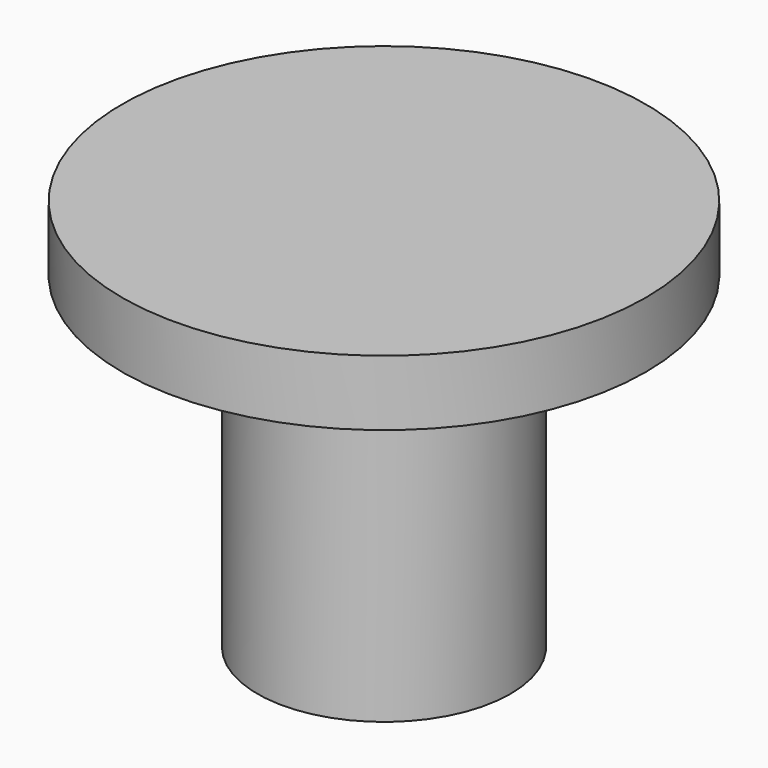
from build123d import *

# Parameters (mm, degrees)
F0_R     = 2.9
F1_DEPTH = 7.5
F0_R_2   = 6
F2_DEPTH = 1.5


with BuildPart() as f1:
    # F0 (on Top) → F1 (new body)
    with BuildSketch(Plane.XY):
        Circle(F0_R)
    extrude(amount=-F1_DEPTH)

    # F0 (on Top) → F2 (join)
    with BuildSketch(Plane.XY):
        Circle(F0_R_2)
        Circle(F0_R, mode=Mode.SUBTRACT)
        Circle(F0_R)
    extrude(amount=F2_DEPTH)


solid = f1.part
